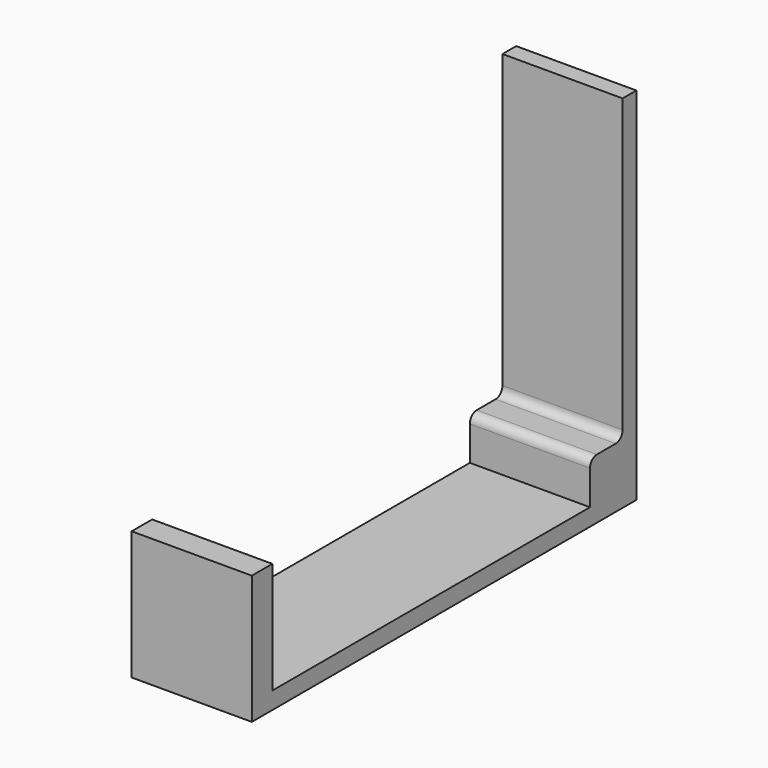
from build123d import *

# Parameters (mm, degrees)
PAD_DEPTH    = 14
PAD001_DEPTH = 13
POCKET_DEPTH = 100
SKETCH003_W  = 4.75
SKETCH003_H  = 5
PAD002_DEPTH = 14
FILLET_R     = 1
FILLET001_R  = 1


with BuildPart() as part:
    # Sketch → Pad (new body)
    with BuildSketch(Plane.YZ):
        Polygon((0, 0), (0, 15), (2, 15), (2, 2), (54, 2), (54, 42), (56, 42), (56, 0), align=None)
    extrude(amount=PAD_DEPTH)

    # Sketch001 (on Face4 of Pad) → Pad001 (join)
    with BuildSketch(Plane(origin=(0, 0, 2), x_dir=(0, -1, 0), z_dir=(0, 0, 1))):
        with BuildLine():
            Line((-2, 14), (-2.987861, 14))
            ThreePointArc((-4.342771, 0), (-3.593472, 6.993047), (-2.987861, 14))
            Line((-2, 0), (-4.342771, 0))
            Line((-2, 0), (-2, 14))
        make_face()
    extrude(amount=PAD001_DEPTH)

    # Sketch002 (on Face10 of Pad001) → Pocket (cut)
    with BuildSketch(Plane.YZ.offset(14)):
        with BuildLine():
            ThreePointArc((2.987861, 15), (4.153127, 9.106971), (5.487861, 3.25))
            Line((5.487861, 15), (5.487861, 3.25))
            Line((2.987861, 15), (5.487861, 15))
        make_face()
    extrude(amount=-POCKET_DEPTH, mode=Mode.SUBTRACT)

    # Sketch003 (on Face2 of Pocket) → Pad002 (join)
    with BuildSketch(Plane(origin=(0, 0, 0), x_dir=(0, 1, 0), z_dir=(-1, 0, 0))):
        with Locations((51.625, -4.5)):
            Rectangle(SKETCH003_W, SKETCH003_H)
    extrude(amount=-PAD002_DEPTH)

    # Fillet
    fillet_edges = [part.edges().sort_by_distance(p)[0] for p in [
        (7, 49.25, 7),
    ]]
    fillet(fillet_edges, radius=FILLET_R)

    # Fillet001
    fillet001_edges = [part.edges().sort_by_distance(p)[0] for p in [
        (7, 54, 7),
    ]]
    fillet(fillet001_edges, radius=FILLET001_R)


solid = part.part
